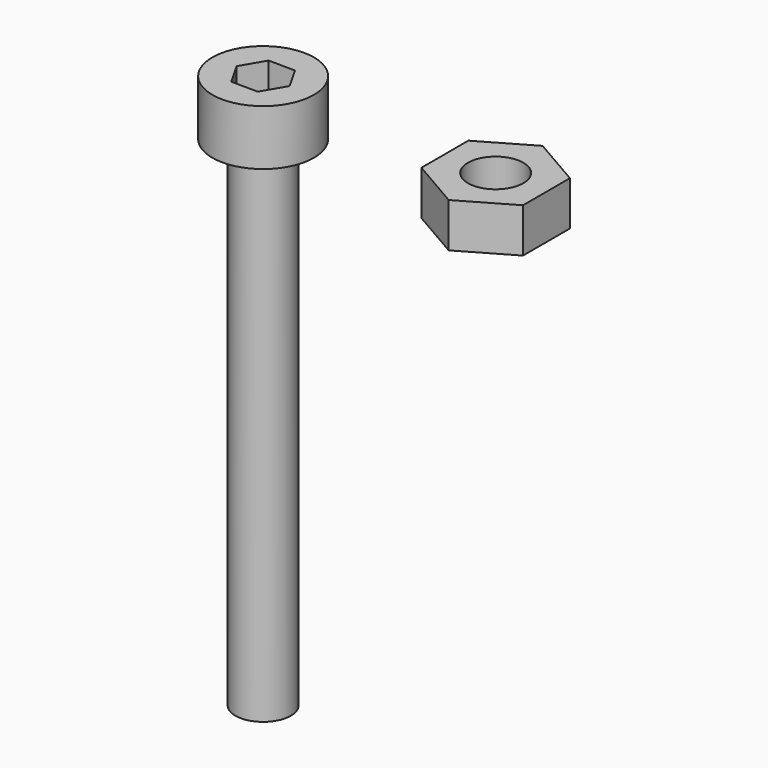
from build123d import *

# Parameters (mm, degrees)
F0_R     = 2.75
F3_DEPTH = 3
F1_R     = 1.5
F4_DEPTH = 30
F5_DEPTH = 2
F6_R     = 1.5
F7_DEPTH = 2.4


with BuildPart() as f3:
    # F0 (on Top) → F3 (new body)
    with BuildSketch(Plane.XY):
        Circle(F0_R)
    extrude(amount=-F3_DEPTH)

    # F1 (on Top) → F4 (join)
    with BuildSketch(Plane.XY):
        Circle(F1_R)
    extrude(amount=-F4_DEPTH)

    # F2 (on Top) → F5 (cut)
    with BuildSketch(Plane.XY):
        Polygon((-0.711696, 1.255716), (-1.44333, 0.011511), (-0.731634, -1.244205), (0.711696, -1.255716), (1.44333, -0.011511), (0.731634, 1.244205), align=None)
    extrude(amount=-F5_DEPTH, mode=Mode.SUBTRACT)


with BuildPart() as f7:
    # F6 (on Top) → F7 (new body)
    with BuildSketch(Plane.XY):
        Polygon((10.465095, 0.805562), (10.465095, -2.369865), (13.215095, -3.957578), (15.965095, -2.369865), (15.965095, 0.805562), (13.215095, 2.393275), align=None)
        with Locations((13.215095, -0.782151)):
            Circle(F6_R, mode=Mode.SUBTRACT)
    extrude(amount=-F7_DEPTH)


solid = Compound([f3.part, f7.part])
